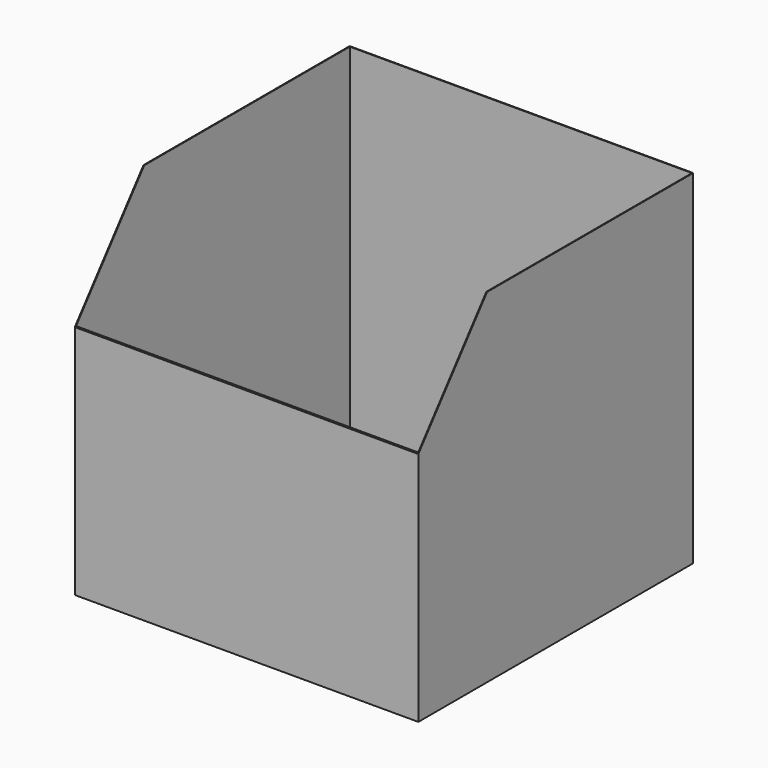
from build123d import *

# Parameters (mm, degrees)
F0_W     = 1219.2
F0_H     = 1219.2
F1_DEPTH = 1219.2
F2_T     = -2.54
F4_DEPTH = 1219.2


with BuildPart() as f1:
    # F0 (on Top) → F1 (new body)
    with BuildSketch(Plane.XY):
        Rectangle(F0_W, F0_H)
    extrude(amount=F1_DEPTH)

    # F2
    f2_openings = [f1.faces().sort_by_distance(p)[0] for p in [
        (0, 0, 1219.2),
    ]]
    offset(amount=F2_T, openings=f2_openings)

    # F3 (on face) → F4 (cut)
    with BuildSketch(Plane(origin=(-609.6, 0, 0), x_dir=(0, -1, 0), z_dir=(-1, 0, 0))):
        Polygon((609.6, 836.845815), (609.6, 1219.2), (304.8, 1219.2), align=None)
    extrude(amount=-F4_DEPTH, mode=Mode.SUBTRACT)


solid = f1.part
